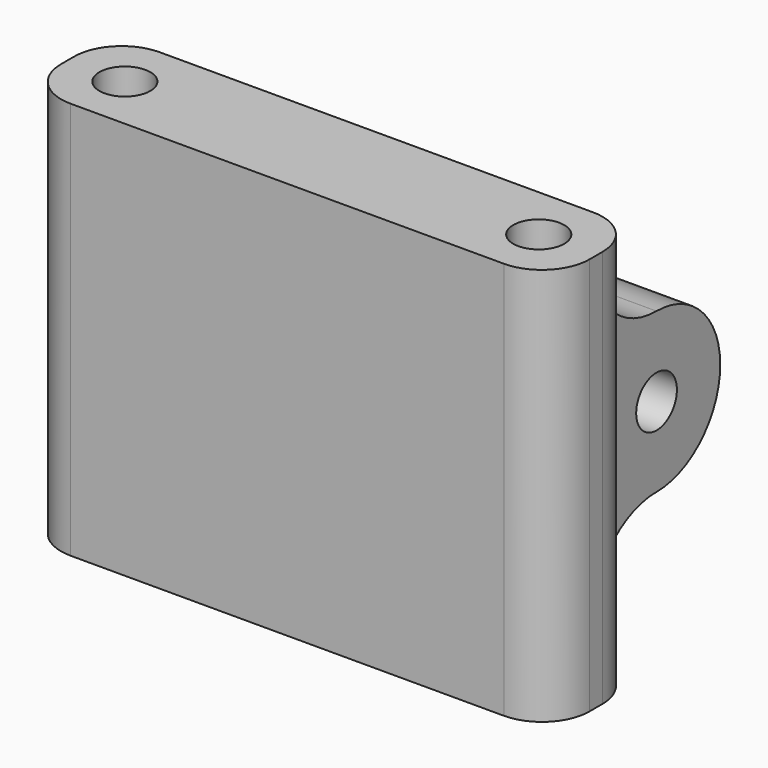
from build123d import *

# Parameters (mm, degrees)
SKETCH_W        = 33.2
SKETCH_H        = 7
SKETCH_R        = 1.6
PAD_DEPTH       = 25
SKETCH001_R     = 1.6
PAD001_DEPTH    = 33.2
SKETCH002_W     = 7.5
SKETCH002_H     = 10
SKETCH002_W_2   = 3
POCKET_DEPTH    = 25.001
FILLET_R        = 2.99
FILLET001_R     = 4.99
POCKET001_DEPTH = 2.5


with BuildPart() as part:
    # Sketch → Pad (new body)
    with BuildSketch(Plane.XY):
        Rectangle(SKETCH_W, SKETCH_H)
        with Locations((-13, 0)):
            Circle(SKETCH_R, mode=Mode.SUBTRACT)
        with Locations((13, 0)):
            Circle(SKETCH_R, mode=Mode.SUBTRACT)
    extrude(amount=PAD_DEPTH)

    # Sketch001 (on Face4 of Pad) → Pad001 (join)
    with BuildSketch(Plane(origin=(-16.6, 0, 0), x_dir=(0, -1, 0), z_dir=(-1, 0, 0))):
        with BuildLine():
            Line((-3.5, 17.5), (-3.5, 7.5))
            Line((-8.5, 7.5), (-3.5, 7.5))
            ThreePointArc((-8.5, 17.5), (-13.5, 12.5), (-8.5, 7.5))
            Line((-3.5, 17.5), (-8.5, 17.5))
        make_face()
        with Locations((-8.5, 12.5)):
            Circle(SKETCH001_R, mode=Mode.SUBTRACT)
    extrude(amount=-PAD001_DEPTH)

    # Sketch002 (on Face11 of Pad001) → Pocket (cut, through all)
    with BuildSketch(Plane.XY.offset(25)):
        with Locations((0, 8.5)):
            Rectangle(SKETCH002_W, SKETCH002_H)
        with Locations((-15.1, 8.5)):
            Rectangle(SKETCH002_W_2, SKETCH002_H)
        with Locations((15.1, 8.5)):
            Rectangle(SKETCH002_W_2, SKETCH002_H)
    extrude(amount=-POCKET_DEPTH, mode=Mode.SUBTRACT)

    # Fillet
    fillet_edges = [part.edges().sort_by_distance(p)[0] for p in [
        (-16.6, 3.5, 12.5),
        (-16.6, -3.5, 12.5),
        (16.6, -3.5, 12.5),
        (16.6, 3.5, 12.5),
    ]]
    fillet(fillet_edges, radius=FILLET_R)

    # Fillet001
    fillet001_edges = [part.edges().sort_by_distance(p)[0] for p in [
        (8.675, 3.5, 17.5),
        (-8.675, 3.5, 17.5),
        (8.675, 3.5, 7.5),
        (-8.675, 3.5, 7.5),
    ]]
    fillet(fillet001_edges, radius=FILLET001_R)

    # Sketch003 (on Face2 of Fillet001) → Pocket001 (cut)
    with BuildSketch(Plane(origin=(-13.6, 0, 0), x_dir=(0, -1, 0), z_dir=(-1, 0, 0))):
        Polygon((-5.266838, 12.5), (-6.883419, 15.3), (-10.116581, 15.3), (-11.733162, 12.5), (-10.116581, 9.7), (-6.883419, 9.7), align=None)
    extrude(amount=-POCKET001_DEPTH, mode=Mode.SUBTRACT)


solid = part.part
